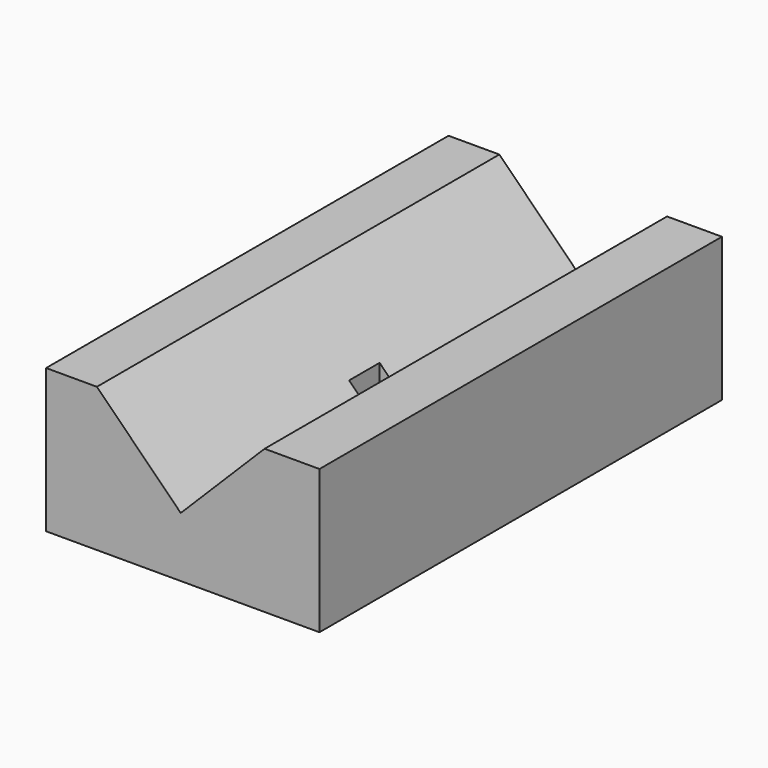
from build123d import *

# Parameters (mm, degrees)
F1_DEPTH = 88.9
F2_W     = 6.731
F2_H     = 6.731
F3_DEPTH = 49.5578889657
F4_ANGLE = 45
F5_ANGLE = 90
F6_ANGLE = 90


with BuildPart() as f1:
    # F0 (on Top) → F1 (new body)
    with BuildSketch(Plane.XY):
        Polygon((-10.7315, -10.7315), (-10.7315, 10.2235), (10.2235, 10.2235), (17.0815, 17.0815), (-0.8790122421, 35.0420122421), (-35.0420122421, 0.8790122421), (-17.0815, -17.0815), align=None)
        Polygon((-10.7315, -10.7315), (-10.7315, 10.2235), (10.2235, 10.2235), (17.0815, 17.0815), (-0.8790122421, 35.0420122421), (-35.0420122421, 0.8790122421), (-17.0815, -17.0815), align=None)
    extrude(amount=F1_DEPTH)

    # F2 (on face) → F3 (cut, through all)
    with BuildSketch(Plane(origin=(-17.9605122421, 17.9605122421, 0), x_dir=(-0.7071067812, -0.7071067812, 0), z_dir=(-0.7071067812, 0.7071067812, 0))):
        with Locations((0, 44.323)):
            Rectangle(F2_W, F2_H)
    extrude(amount=-F3_DEPTH, mode=Mode.SUBTRACT)


with BuildPart() as f1_1:
    # F4: moved
    add(f1.part.rotate(Axis((-10.7315, 10.2235, 20.47875), (0, 0, -1)), F4_ANGLE))


with BuildPart() as f1_2:
    # F5: moved
    add(f1_1.part.rotate(Axis((-10.3722897552, 20.8060774002, 0), (-1, 0, 0)), F5_ANGLE))


with BuildPart() as f6_1:
    # F6: copy of F1
    add(f1_2.part.rotate(Axis((13.7845992105, 20.8060774002, 12.7), (0, 0, 1)), F6_ANGLE))


with BuildPart() as f6_1_1:
    # F7: moved
    add(f6_1.part.moved(Location((19.05, 0, 0))))


solid = f1_2.part
